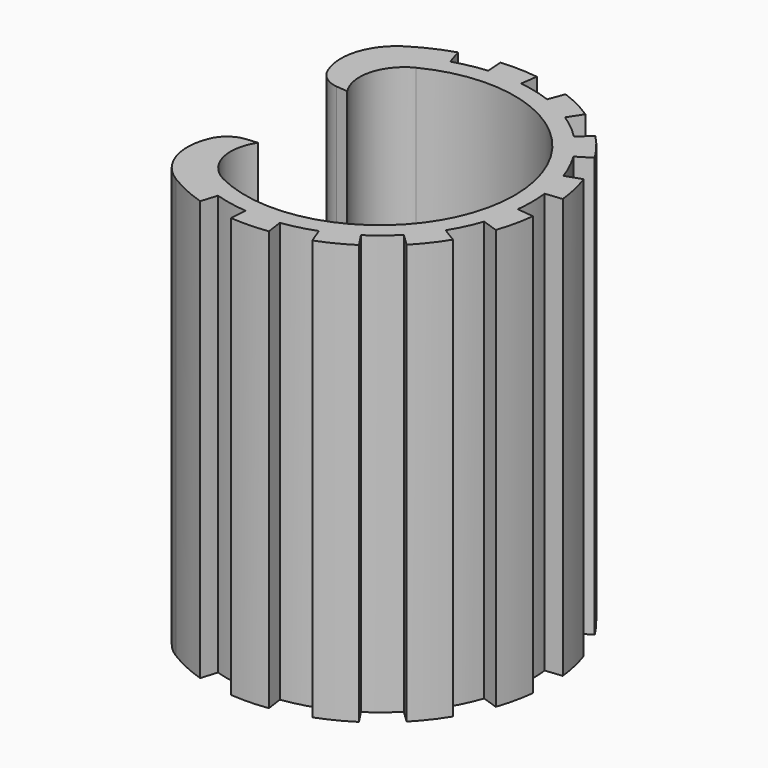
from build123d import *

# Parameters (mm, degrees)
F3_DEPTH = 30


with BuildPart() as f3:
    # F2 (on Top) → F3 (new body, symmetric)
    with BuildSketch(Plane.XY):
        with BuildLine():
            ThreePointArc((-1.8513195776, 21.6711027134), (-4.226963932, 21.3353241312), (-6.5511709206, 20.7399291119))
            Line((-6.5511709206, 20.7399291119), (-7.262045058, 23.0322643606))
            ThreePointArc((-7.262045058, 23.0322643606), (-10.1040711271, 21.9346813667), (-12.7852941176, 20.4880148947))
            ThreePointArc((-12.7852941176, 20.4880148947), (-16.1939823477, 16.0610808359), (-15.8742106212, 10.483030401))
            ThreePointArc((-15.8742106212, 10.483030401), (-14.6158857912, 8.8949014767), (-12.7407606767, 8.1271510859))
            Line((-12.7407606767, 8.1271510859), (-11.05, 7.9751122332))
            ThreePointArc((-11.05, 7.9751122332), (-11.9067236941, 13.1343589763), (-8.6272212864, 17.2082596135))
            ThreePointArc((-8.6272212864, 17.2082596135), (10.1115536533, 16.3803515345), (19.25, 0))
            ThreePointArc((19.25, 0), (10.1115536533, -16.3803515345), (-8.6272212864, -17.2082596135))
            ThreePointArc((-8.6272212864, -17.2082596135), (-11.9067236941, -13.1343589763), (-11.05, -7.9751122332))
            Line((-11.05, -7.9751122332), (-12.7407606767, -8.1271510859))
            ThreePointArc((-12.7407606767, -8.1271510859), (-14.6158857912, -8.8949014767), (-15.8742106212, -10.483030401))
            ThreePointArc((-15.8742106212, -10.483030401), (-16.1939823477, -16.0610808359), (-12.7852941176, -20.4880148947))
            ThreePointArc((-12.7852941176, -20.4880148947), (-10.1040711271, -21.9346813667), (-7.262045058, -23.0322643606))
            Line((-7.262045058, -23.0322643606), (-6.5511709206, -20.7399291119))
            ThreePointArc((-6.5511709206, -20.7399291119), (-6.5401985645, -20.7433918735), (-6.529224378, -20.7468488303))
            ThreePointArc((-6.529224378, -20.7468488303), (-4.2156769366, -21.3375573021), (-1.8513195776, -21.6711027134))
            Line((-1.8513195776, -21.6711027134), (-2.0430512676, -24.0634617772))
            ThreePointArc((-2.0430512676, -24.0634617772), (-2.0428918357, -24.063475314), (-2.0427324037, -24.0634888497))
            ThreePointArc((-2.0427324037, -24.0634888497), (0.6199495613, -24.1420961657), (3.2750906873, -23.9269683962))
            Line((3.2750906873, -23.9269683962), (2.9383760596, -21.5506758656))
            ThreePointArc((2.9383760596, -21.5506758656), (2.9497759737, -21.5491185356), (2.9611750624, -21.5475551753))
            ThreePointArc((2.9611750624, -21.5475551753), (5.3053035087, -21.0931323661), (7.585493758, -20.384492338))
            Line((7.585493758, -20.384492338), (8.4343154678, -22.6294076229))
            ThreePointArc((8.4343154678, -22.6294076229), (8.4344653982, -22.6293517421), (8.4346153283, -22.6292958604))
            ThreePointArc((8.4346153283, -22.6292958604), (10.8756025996, -21.5626958894), (13.1842692655, -20.233744204))
            Line((13.1842692655, -20.233744204), (11.8645299461, -18.2291417346))
            ThreePointArc((11.8645299461, -18.2291417346), (11.874171517, -18.2228629266), (11.883809765, -18.2165790192))
            ThreePointArc((11.883809765, -18.2165790192), (13.8090392449, -16.8041592119), (15.5678423809, -15.1892134569))
            Line((15.5678423809, -15.1892134569), (17.2944583387, -16.8562288334))
            ThreePointArc((17.2944583387, -16.8562288334), (17.2945700189, -16.8561142501), (17.2946816983, -16.8559996661))
            ThreePointArc((17.2946816983, -16.8559996661), (19.0459219, -14.8487099231), (20.5654338301, -12.6607570326))
            Line((20.5654338301, -12.6607570326), (18.515726085, -11.4122214541))
            ThreePointArc((18.515726085, -11.4122214541), (18.5217605688, -11.4024251117), (18.5277898695, -11.3926255785))
            ThreePointArc((18.5277898695, -11.3926255785), (19.6649630986, -9.2930362593), (20.5651336156, -7.081446039))
            Line((20.5651336156, -7.081446039), (22.8384701159, -7.8509160436))
            ThreePointArc((22.8384701159, -7.8509160436), (22.8385221314, -7.8507647288), (22.838574146, -7.8506134137))
            ThreePointArc((22.838574146, -7.8506134137), (23.5642719437, -5.2875260053), (24.0032670414, -2.6601056619))
            Line((24.0032670414, -2.6601056619), (21.6166165087, -2.407040125))
            ThreePointArc((21.6166165087, -2.407040125), (21.6179126847, -2.3956075884), (21.6192026895, -2.3841743538))
            ThreePointArc((21.6192026895, -2.3841743538), (21.7194921826, -1.1939616383), (21.7529570391, 0))
            ThreePointArc((21.7529570391, 0), (21.7188446109, 1.2054491801), (21.6166165087, 2.407040125))
            Line((21.6166165087, 2.407040125), (24.0032670414, 2.6601056619))
            ThreePointArc((24.0032670414, 2.6601056619), (23.5642369108, 5.2876821286), (22.8384701159, 7.8509160436))
            Line((22.8384701159, 7.8509160436), (20.5651336156, 7.081446039))
            ThreePointArc((20.5651336156, 7.081446039), (19.6600443233, 9.3034376519), (18.515726085, 11.4122214541))
            Line((18.515726085, 11.4122214541), (20.5654338301, 12.6607570326))
            ThreePointArc((20.5654338301, 12.6607570326), (19.0458235198, 14.84883611), (17.2944583387, 16.8562288334))
            Line((17.2944583387, 16.8562288334), (15.5678423809, 15.1892134569))
            ThreePointArc((15.5678423809, 15.1892134569), (13.8001478988, 16.8114617649), (11.8645299461, 18.2291417346))
            Line((11.8645299461, 18.2291417346), (13.1842692655, 20.233744204))
            ThreePointArc((13.1842692655, 20.233744204), (10.8754597362, 21.5627679439), (8.4343154678, 22.6294076229))
            Line((8.4343154678, 22.6294076229), (7.585493758, 20.384492338))
            ThreePointArc((7.585493758, 20.384492338), (5.2941444821, 21.0959358359), (2.9383760596, 21.5506758656))
            Line((2.9383760596, 21.5506758656), (3.2750906873, 23.9269683962))
            ThreePointArc((3.2750906873, 23.9269683962), (0.6197896084, 24.1421002715), (-2.0430512676, 24.0634617772))
            Line((-2.0430512676, 24.0634617772), (-1.8513195776, 21.6711027134))
        make_face()
    extrude(amount=F3_DEPTH, both=True)


solid = f3.part
